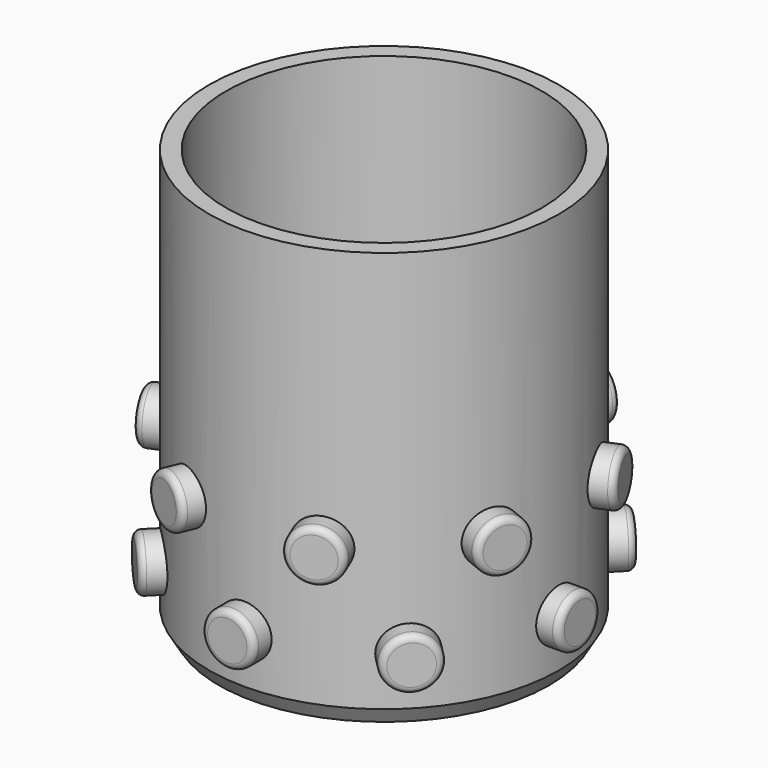
from build123d import *

# Parameters (mm, degrees)
F0_R      = 13.4
F0_R_2    = 12.1
F1_DEPTH  = 32
F2_R      = 2
F3_DEPTH  = 2.5
F4_R      = 0.5
F6_COUNT  = 8
F8_ANGLE  = 22.5
F9_COUNT  = 8
F10_SIZE2 = 0.75
F10_SIZE  = 1.25


with BuildPart() as f1:
    # F0 (on Top) → F1 (new body)
    with BuildSketch(Plane.XY):
        Circle(F0_R)
        Circle(F0_R_2, mode=Mode.SUBTRACT)
    extrude(amount=F1_DEPTH)



with BuildPart() as f3:
    # F2 (on Front) → F3 (new body)
    with BuildSketch(Plane.XZ):
        Circle(F2_R)
    extrude(amount=F3_DEPTH)

    # F4
    f4_edges = [f3.edges().sort_by_distance(p)[0] for p in [
        (-2, -2.5, 0),
    ]]
    fillet(f4_edges, radius=F4_R)


with BuildPart() as f3_1:
    # F5: moved
    add(f3.part.moved(Location((0, -12.5, 5))))


with BuildPart() as f6_1:
    # F6: instance of F3
    add(f3_1.part.rotate(Axis((0, 0, 0), (0, 0, -1)), 1 * 360 / F6_COUNT))


with BuildPart() as f6_2:
    # F6: instance of F3
    add(f3_1.part.rotate(Axis((0, 0, 0), (0, 0, -1)), 2 * 360 / F6_COUNT))


with BuildPart() as f6_3:
    # F6: instance of F3
    add(f3_1.part.rotate(Axis((0, 0, 0), (0, 0, -1)), 3 * 360 / F6_COUNT))


with BuildPart() as f6_4:
    # F6: instance of F3
    add(f3_1.part.rotate(Axis((0, 0, 0), (0, 0, -1)), 4 * 360 / F6_COUNT))


with BuildPart() as f6_5:
    # F6: instance of F3
    add(f3_1.part.rotate(Axis((0, 0, 0), (0, 0, -1)), 5 * 360 / F6_COUNT))


with BuildPart() as f6_6:
    # F6: instance of F3
    add(f3_1.part.rotate(Axis((0, 0, 0), (0, 0, -1)), 6 * 360 / F6_COUNT))


with BuildPart() as f6_7:
    # F6: instance of F3
    add(f3_1.part.rotate(Axis((0, 0, 0), (0, 0, -1)), 7 * 360 / F6_COUNT))


with BuildPart() as f7_1:
    # F7: copy of F3
    add(f3_1.part.moved(Location((0, 0, 7))))


with BuildPart() as f7_1_1:
    # F8: moved
    add(f7_1.part.rotate(Axis((0, 0, 0), (0, 0, -1)), F8_ANGLE))


with BuildPart() as f1_1:
    add(f1.part)

    add(f3_1.part)  # F9 merges F3

    add(f6_1.part)  # F9 merges F6_1

    add(f6_2.part)  # F9 merges F6_2

    add(f6_3.part)  # F9 merges F6_3

    add(f6_4.part)  # F9 merges F6_4

    add(f6_5.part)  # F9 merges F6_5

    add(f6_6.part)  # F9 merges F6_6

    add(f6_7.part)  # F9 merges F6_7

    add(f7_1_1.part)  # F9 merges F7_1
    # F9: F7_1 ×8 about axis
    f9_axis = Axis((0, 0, 0), (0, 0, -1))
    for i in range(1, F9_COUNT):
        add(f7_1_1.part.rotate(f9_axis, i * 360 / F9_COUNT))

    # F10
    f10_edges = [f1_1.edges().sort_by_distance(p)[0] for p in [
        (-13.4, 0, 0),
    ]]
    f10_side = f1_1.faces().sort_by_distance((-13.4, 0, 16))[0]
    chamfer(f10_edges, length=F10_SIZE, length2=F10_SIZE2, reference=f10_side)


solid = f1_1.part
